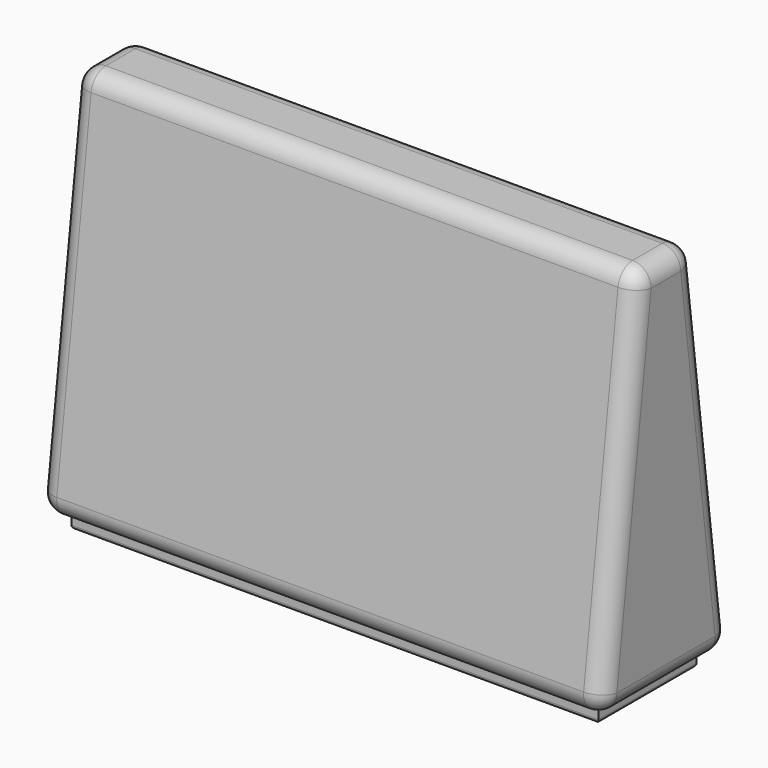
from build123d import *

# Parameters (mm, degrees)
F1_DEPTH = 152.4
F2_R     = 5
F3_W     = 142.4
F3_H     = 33.168938
F3_W_2   = 134.4
F3_H_2   = 25.168938
F4_DEPTH = 4
F5_R     = 1


with BuildPart() as f1:
    # F0 (on Right) → F1 (new body)
    with BuildSketch(Plane.YZ):
        Polygon((-22.256978, -83.947913), (0, -83.947913), (22.256978, -83.947913), (9.401655, 17.652087), (0, 17.652087), (-9.401655, 17.652087), align=None)
    extrude(amount=F1_DEPTH)

    # F2
    f2_edges = [f1.edges().sort_by_distance(p)[0] for p in [
        (76.2, 22.256978, -83.947913),
        (76.2, 9.401655, 17.652087),
        (0, 15.829316, -33.147913),
        (152.4, 15.829316, -33.147913),
        (76.2, -9.401655, 17.652087),
        (76.2, -22.256978, -83.947913),
        (0, -15.829316, -33.147913),
        (152.4, -15.829316, -33.147913),
        (152.4, 0, 17.652087),
        (0, 0, 17.652087),
        (152.4, 0, -83.947913),
        (0, 0, -83.947913),
    ]]
    fillet(f2_edges, radius=F2_R)

    # F3 (on face) → F4 (join)
    with BuildSketch(Plane(origin=(0, 0, -83.947913), x_dir=(1, 0, 0), z_dir=(0, 0, -1))):
        with Locations((76.2, 0)):
            Rectangle(F3_W, F3_H)
        with Locations((76.2, 0)):
            Rectangle(F3_W_2, F3_H_2, mode=Mode.SUBTRACT)
    extrude(amount=F4_DEPTH)

    # F5
    f5_edges = [f1.edges().sort_by_distance(p)[0] for p in [
        (147.4, 0, -87.947913),
        (76.2, -16.584469, -87.947913),
        (5, 0, -87.947913),
        (76.2, 16.584469, -87.947913),
        (9, 0, -87.947913),
        (76.2, -12.584469, -87.947913),
        (143.4, 0, -87.947913),
        (76.2, 12.584469, -87.947913),
    ]]
    fillet(f5_edges, radius=F5_R)


solid = f1.part
